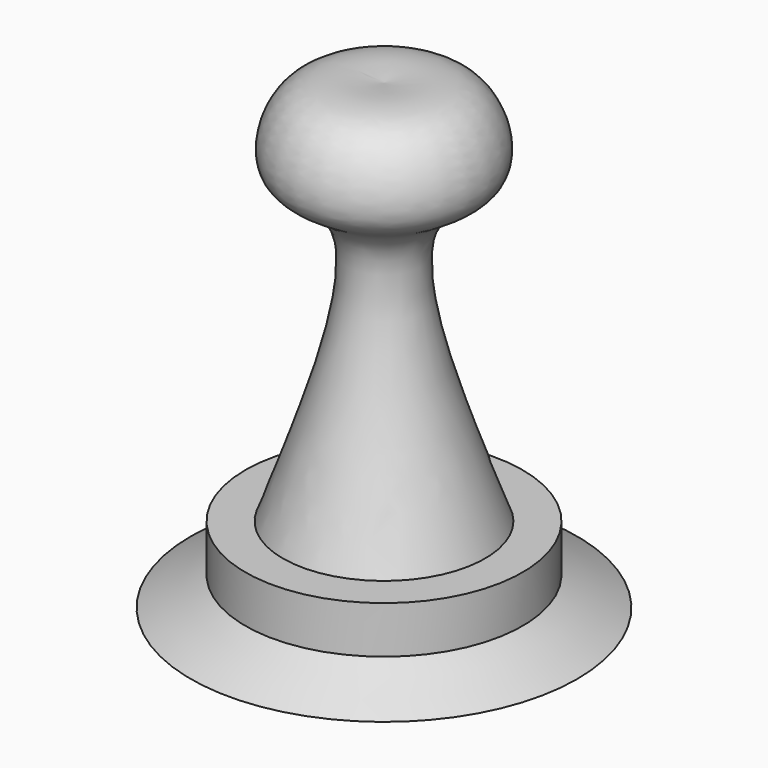
from build123d import *


with BuildPart() as f1:
    # F0 (on Front) → F1 (revolve)
    with BuildSketch(Plane.XZ):
        with BuildLine():
            Line((0, -13.5454749689), (0, 68.6516165733))
            add(Edge.make_bspline(
                [(0, 68.6516165733), (-5.2932788326, 69.2208965371), (-15.5034315859, 70.318974982), (-20.4528850245, 52.5406010505), (0.0582347598, 49.3411902024), (-10.7638087605, 19.7366287127), (-17.9785974324, 0)],
                knots=[0, 0, 0, 0, 0.2129432765, 0.4107441625, 0.6071577116, 1, 1, 1, 1], degree=3))
            Line((-17.9785974324, 0), (-24.6514230967, 0))
            Line((-24.6514230967, 0), (-24.6514230967, -8.3891991526))
            Line((-24.6514230967, -8.3891991526), (-34.3573540449, -13.5454749689))
            Line((-34.3573540449, -13.5454749689), (0, -13.5454749689))
        make_face()
    revolve(axis=Axis((0, 0, 31.647760421), (0, 0, -1)))


solid = f1.part
